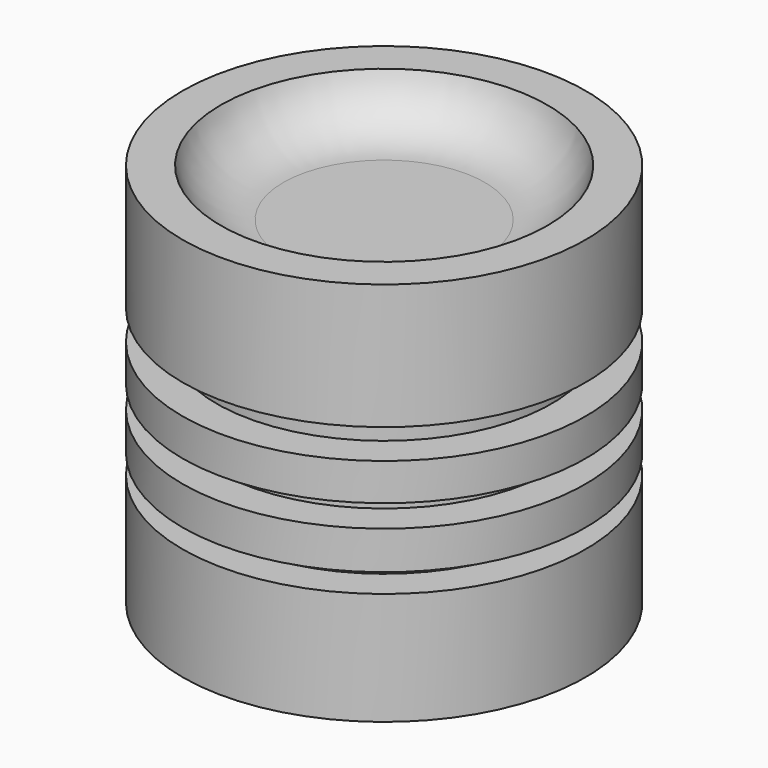
from build123d import *


with BuildPart() as f1:
    # F0 (on Front) → F1 (revolve)
    with BuildSketch(Plane.XZ):
        with BuildLine():
            Line((-6.821418, 16.058695), (0, 16.058695))
            Line((0, 16.058695), (0, 18.716853))
            Line((0, 18.716853), (-5.596306, 18.716853))
            ThreePointArc((-5.596306, 18.716853), (-7.781779, 19.457771), (-9.066084, 21.375012))
            Line((-9.066084, 21.375012), (-11.192611, 21.375012))
            Line((-11.192611, 21.375012), (-11.192611, 14.40473))
            Line((-11.192611, 14.40473), (-9.302366, 14.40473))
            Line((-9.302366, 14.40473), (-9.302366, 12.750765))
            Line((-9.302366, 12.750765), (-11.192611, 12.750765))
            Line((-11.192611, 12.750765), (-11.192611, 10.687506))
            Line((-11.192611, 10.687506), (-9.302366, 10.687506))
            Line((-9.302366, 10.687506), (-9.302366, 9.442835))
            Line((-9.302366, 9.442835), (-11.192611, 9.442835))
            Line((-11.192611, 9.442835), (-11.192611, 7.316309))
            Line((-11.192611, 7.316309), (-9.302366, 7.316309))
            Line((-9.302366, 7.316309), (-9.302366, 6.253046))
            Line((-9.302366, 6.253046), (-11.192611, 6.253046))
            Line((-11.192611, 6.253046), (-11.192611, 0))
            Line((-11.192611, 0), (-6.821418, 0))
            Line((-6.821418, 0), (-6.821418, 16.058695))
        make_face()
    revolve(axis=Axis((0, 0, 17.387774), (0, 0, -1)))


solid = f1.part
